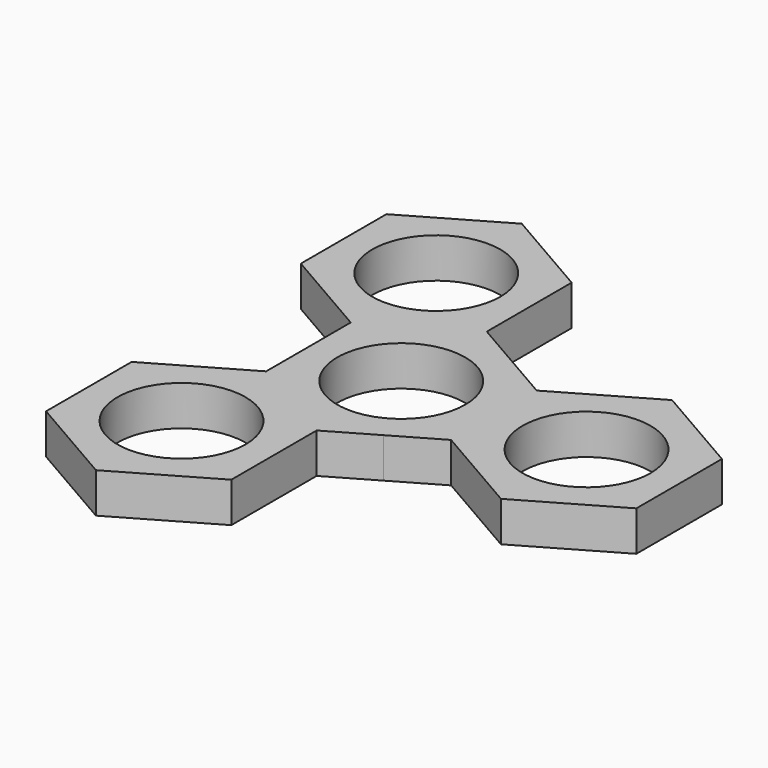
from build123d import *

# Parameters (mm, degrees)
F0_R     = 11.2
F1_DEPTH = 7


with BuildPart() as f1:
    # F0 (on Top) → F1 (new body)
    with BuildSketch(Plane.XY):
        with BuildLine():
            ThreePointArc((8.0999995943, -14.0296117755), (14.0296114242, -8.1000002029), (16.2, 0))
            ThreePointArc((16.2, 0), (14.0296115341, 8.1000000125), (8.0999999751, 14.0296115557))
            ThreePointArc((8.0999999751, 14.0296115557), (0.9969655519, 16.1692937288), (-6.3151236956, 14.9184185726))
            Line((-6.3151236956, 14.9184185726), (-9.7621676204, 12.9282668348))
            ThreePointArc((-9.7621676204, 12.9282668348), (-14.5015019127, 7.2212493569), (-16.2, 0))
            ThreePointArc((-16.2, 0), (-14.5662810935, -7.0896724259), (-9.9946351721, -12.7494026439))
            Line((-9.9946351721, -12.7494026439), (-6.0439889867, -15.0303092825))
            ThreePointArc((-6.0439889867, -15.0303092825), (1.1433038878, -16.1596056951), (8.0999995943, -14.0296117755))
        make_face()
        Circle(F0_R, mode=Mode.SUBTRACT)
        with BuildLine():
            Line((16.2, -9.3530743609), (16.2, 0))
            ThreePointArc((16.2, 0), (14.0296114242, -8.1000002029), (8.0999995943, -14.0296117755))
            Line((8.0999995943, -14.0296117755), (16.2, -9.3530743609))
        make_face()
        with BuildLine():
            ThreePointArc((8.0999999751, 14.0296115557), (14.0296115341, 8.1000000125), (16.2, 0))
            Line((16.2, 0), (16.2, 9.3530743609))
            Line((16.2, 9.3530743609), (8.0999999751, 14.0296115557))
        make_face()
        Polygon((16.2, 9.3530743609), (16.2, 0), (16.2, -9.3530743609), (32.4, -18.7061487217), (48.6, -9.3530743609), (48.6, 9.3530743609), (32.4, 18.7061487217), align=None)
        with Locations((32.4, 0)):
            Circle(F0_R, mode=Mode.SUBTRACT)
        with BuildLine():
            ThreePointArc((-6.3151236956, 14.9184185726), (0.9969655519, 16.1692937288), (8.0999999751, 14.0296115557))
            Line((8.0999999751, 14.0296115557), (0, 18.7061487217))
            Line((0, 18.7061487217), (-0.0091284874, 18.7008783871))
            Line((-0.0091284874, 18.7008783871), (-0.0091284874, 18.5591866036))
            Line((-0.0091284874, 18.5591866036), (-6.3151236956, 14.9184185726))
        make_face()
        with BuildLine():
            Line((0.1111921906, -18.6419518806), (8.0999995943, -14.0296117755))
            ThreePointArc((8.0999995943, -14.0296117755), (1.1433038878, -16.1596056951), (-6.0439889867, -15.0303092825))
            Line((-6.0439889867, -15.0303092825), (0.1111921906, -18.5840047921))
            Line((0.1111921906, -18.5840047921), (0.1111921906, -18.6419518806))
        make_face()
        with BuildLine():
            ThreePointArc((-8.0999999751, 14.0296115557), (-7.221249344, 14.5015019192), (-6.3151236956, 14.9184185726))
            Line((-6.3151236956, 14.9184185726), (-0.0091284874, 18.5591866036))
            Line((-0.0091284874, 18.5591866036), (-0.0091284874, 18.7008783871))
            Line((-0.0091284874, 18.7008783871), (-8.0999999751, 14.0296115557))
        make_face()
        with BuildLine():
            Line((0.1111921906, -18.5840047921), (-6.0439889867, -15.0303092825))
            ThreePointArc((-6.0439889867, -15.0303092825), (-7.0896724129, -14.5662810998), (-8.0999999751, -14.0296115557))
            Line((-8.0999999751, -14.0296115557), (0, -18.7061487217))
            Line((0, -18.7061487217), (0.1111921906, -18.6419518806))
            Line((0.1111921906, -18.6419518806), (0.1111921906, -18.5840047921))
        make_face()
        Polygon((0.1111921906, -37.2901535139), (0.1111921906, -18.6419518806), (0, -18.7061487217), (-8.0999999751, -14.0296115557), (-16.2, -9.3530743609), (-16.2, -9.2951272724), (-32.2888078094, -18.5840047921), (-32.2888078094, -37.2901535139), (-16.0888078094, -46.6432278747), align=None)
        with Locations((-16.0888078094, -27.937079153)):
            Circle(F0_R, mode=Mode.SUBTRACT)
        with BuildLine():
            ThreePointArc((-9.7621676204, 12.9282668348), (-8.948044359, 13.5045363545), (-8.0999999751, 14.0296115557))
            Line((-8.0999999751, 14.0296115557), (-16.2, 9.3530743609))
            Line((-16.2, 9.3530743609), (-16.2, 9.2113825774))
            Line((-16.2, 9.2113825774), (-9.7621676204, 12.9282668348))
        make_face()
        Polygon((-16.2, 9.3530743609), (-8.0999999751, 14.0296115557), (-0.0091284874, 18.7008783871), (-0.0091284874, 37.2653353254), (-16.2091284874, 46.6184096863), (-32.4091284874, 37.2653353254), (-32.4091284874, 18.5591866036), (-16.2091284874, 9.2061122428), (-16.2, 9.2113825774), align=None)
        with Locations((-16.2091284874, 27.9122609645)):
            Circle(F0_R, mode=Mode.SUBTRACT)
        with BuildLine():
            ThreePointArc((-16.2, 0), (-14.5015019127, 7.2212493569), (-9.7621676204, 12.9282668348))
            Line((-9.7621676204, 12.9282668348), (-16.2, 9.2113825774))
            Line((-16.2, 9.2113825774), (-16.2, 0))
        make_face()
        with BuildLine():
            Line((-16.2, -9.3530743609), (-8.0999999751, -14.0296115557))
            ThreePointArc((-8.0999999751, -14.0296115557), (-9.0699332407, -13.4229769801), (-9.9946351721, -12.7494026439))
            Line((-9.9946351721, -12.7494026439), (-16.0888078094, -9.2309304313))
            Line((-16.0888078094, -9.2309304313), (-16.2, -9.2951272724))
            Line((-16.2, -9.2951272724), (-16.2, -9.3530743609))
        make_face()
        with BuildLine():
            Line((-16.0888078094, -9.2309304313), (-9.9946351721, -12.7494026439))
            ThreePointArc((-9.9946351721, -12.7494026439), (-14.5662810935, -7.0896724259), (-16.2, 0))
            Line((-16.2, 0), (-16.2, -9.2951272724))
            Line((-16.2, -9.2951272724), (-16.0888078094, -9.2309304313))
        make_face()
        with BuildLine():
            ThreePointArc((-8.0999999751, -14.0296115557), (-7.0896724129, -14.5662810998), (-6.0439889867, -15.0303092825))
            Line((-6.0439889867, -15.0303092825), (-9.9946351721, -12.7494026439))
            ThreePointArc((-9.9946351721, -12.7494026439), (-9.0699332407, -13.4229769801), (-8.0999999751, -14.0296115557))
        make_face()
        with BuildLine():
            Line((-9.7621676204, 12.9282668348), (-6.3151236956, 14.9184185726))
            ThreePointArc((-6.3151236956, 14.9184185726), (-7.221249344, 14.5015019192), (-8.0999999751, 14.0296115557))
            ThreePointArc((-8.0999999751, 14.0296115557), (-8.948044359, 13.5045363545), (-9.7621676204, 12.9282668348))
        make_face()
    extrude(amount=F1_DEPTH)


solid = f1.part
